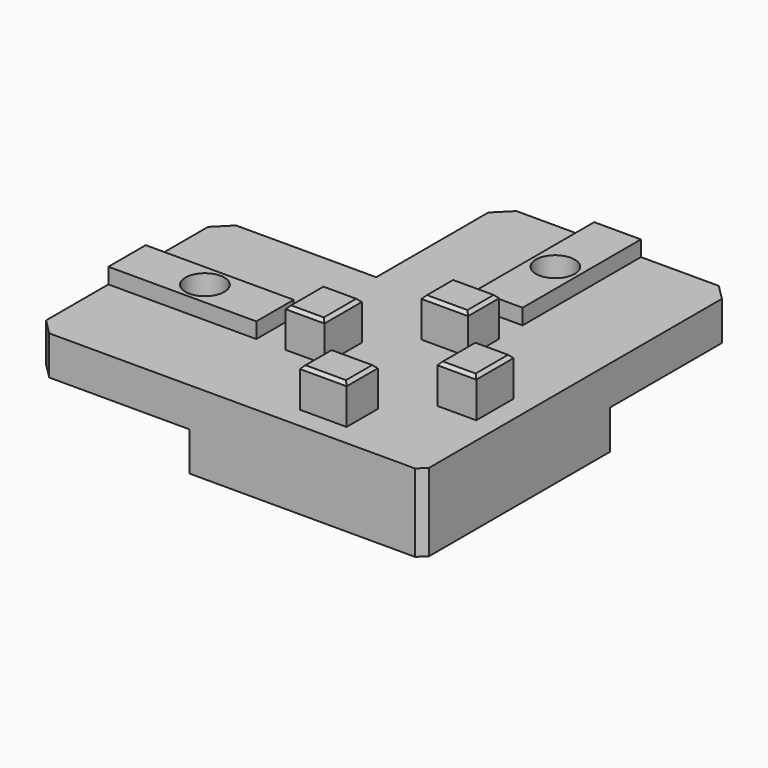
from build123d import *

# Parameters (mm, degrees)
BOX009_W          = 25
BOX009_H          = 25
BOX009_DEPTH      = 3
CYLINDER002_R     = 5
CYLINDER002_DEPTH = 2
CYLINDER003_R     = 5
CYLINDER003_DEPTH = 2
BOX004_W          = 5
BOX004_H          = 6
BOX004_DEPTH      = 5
CHAMFER004_SIZE   = 0.4
BOX003_W          = 5
BOX003_H          = 6
BOX003_DEPTH      = 5
CHAMFER003_SIZE   = 0.4
BOX002_W          = 6
BOX002_H          = 5
BOX002_DEPTH      = 5
CHAMFER002_SIZE   = 0.4
CYLINDER001_R     = 2.5
CYLINDER001_DEPTH = 10
BOX005_W          = 30
BOX005_H          = 20
BOX005_DEPTH      = 5
BOX007_W          = 6
BOX007_H          = 19
BOX007_DEPTH      = 2
CHAMFER001_SIZE   = 2
CYLINDER_R        = 2.5
CYLINDER_DEPTH    = 10
BOX006_W          = 20
BOX006_H          = 30
BOX006_DEPTH      = 5
BOX008_W          = 19
BOX008_H          = 6
BOX008_DEPTH      = 2
CHAMFER_SIZE      = 2
BOX_W             = 30
BOX_H             = 30
BOX_DEPTH         = 10
BOX001_W          = 6
BOX001_H          = 5
BOX001_DEPTH      = 5
CHAMFER005_SIZE   = 0.4
CHAMFER006_SIZE   = 1


with BuildPart() as cube009:
    # Box009 → Box009 (new body)
    with BuildSketch(Plane(origin=(-12.5, -12.5, -10), x_dir=(1, 0, 0), z_dir=(0, 0, 1))):
        with Locations((12.5, 12.5)):
            Rectangle(BOX009_W, BOX009_H)
    extrude(amount=BOX009_DEPTH)


with BuildPart() as cylinder002:
    # Cylinder002 → Cylinder002 (new body)
    with BuildSketch(Plane(origin=(0, 25, -5), x_dir=(1, 0, 0), z_dir=(0, 0, 1))):
        Circle(CYLINDER002_R)
    extrude(amount=CYLINDER002_DEPTH)


with BuildPart() as cylinder003:
    # Cylinder003 → Cylinder003 (new body)
    with BuildSketch(Plane(origin=(-25, 0, -5), x_dir=(1, 0, 0), z_dir=(0, 0, 1))):
        Circle(CYLINDER003_R)
    extrude(amount=CYLINDER003_DEPTH)


with BuildPart() as chamfer004:
    # Box004 → Box004 (new body)
    with BuildSketch(Plane(origin=(-12.25, -3, 0), x_dir=(1, 0, 0), z_dir=(0, 0, 1))):
        with Locations((2.5, 3)):
            Rectangle(BOX004_W, BOX004_H)
    extrude(amount=BOX004_DEPTH)

    # Chamfer004
    chamfer004_edges = [chamfer004.edges().sort_by_distance(p)[0] for p in [
        (-12.25, 0, 5),
        (-7.25, 0, 5),
        (-9.75, -3, 5),
        (-9.75, 3, 5),
    ]]
    chamfer(chamfer004_edges, length=CHAMFER004_SIZE)


with BuildPart() as chamfer003:
    # Box003 → Box003 (new body)
    with BuildSketch(Plane(origin=(7.25, -3, 0), x_dir=(1, 0, 0), z_dir=(0, 0, 1))):
        with Locations((2.5, 3)):
            Rectangle(BOX003_W, BOX003_H)
    extrude(amount=BOX003_DEPTH)

    # Chamfer003
    chamfer003_edges = [chamfer003.edges().sort_by_distance(p)[0] for p in [
        (7.25, 0, 5),
        (12.25, 0, 5),
        (9.75, -3, 5),
        (9.75, 3, 5),
    ]]
    chamfer(chamfer003_edges, length=CHAMFER003_SIZE)


with BuildPart() as chamfer002:
    # Box002 → Box002 (new body)
    with BuildSketch(Plane(origin=(-3, -12.25, 0), x_dir=(1, 0, 0), z_dir=(0, 0, 1))):
        with Locations((3, 2.5)):
            Rectangle(BOX002_W, BOX002_H)
    extrude(amount=BOX002_DEPTH)

    # Chamfer002
    chamfer002_edges = [chamfer002.edges().sort_by_distance(p)[0] for p in [
        (-3, -9.75, 5),
        (3, -9.75, 5),
        (0, -12.25, 5),
        (0, -7.25, 5),
    ]]
    chamfer(chamfer002_edges, length=CHAMFER002_SIZE)


with BuildPart() as cylinder001:
    # Cylinder001 → Cylinder001 (new body)
    with BuildSketch(Plane(origin=(0, 25, -5), x_dir=(1, 0, 0), z_dir=(0, 0, 1))):
        Circle(CYLINDER001_R)
    extrude(amount=CYLINDER001_DEPTH)


with BuildPart() as cube005:
    # Box005 → Box005 (new body)
    with BuildSketch(Plane(origin=(-15, 15, -5), x_dir=(1, 0, 0), z_dir=(0, 0, 1))):
        with Locations((15, 10)):
            Rectangle(BOX005_W, BOX005_H)
    extrude(amount=BOX005_DEPTH)


with BuildPart() as chamfer001:
    # Box007 → Box007 (new body)
    with BuildSketch(Plane(origin=(-3, 16, 0), x_dir=(1, 0, 0), z_dir=(0, 0, 1))):
        with Locations((3, 9.5)):
            Rectangle(BOX007_W, BOX007_H)
    extrude(amount=BOX007_DEPTH)

    # Fusion001: union Cube005
    add(cube005.part)

    # Cut001: cut Cylinder001
    add(cylinder001.part, mode=Mode.SUBTRACT)

    # Chamfer001
    chamfer001_edges = [chamfer001.edges().sort_by_distance(p)[0] for p in [
        (-15, 35, -2.5),
        (15, 35, -2.5),
    ]]
    chamfer(chamfer001_edges, length=CHAMFER001_SIZE)


with BuildPart() as cylinder:
    # Cylinder → Cylinder (new body)
    with BuildSketch(Plane(origin=(-25, 0, -5), x_dir=(1, 0, 0), z_dir=(0, 0, 1))):
        Circle(CYLINDER_R)
    extrude(amount=CYLINDER_DEPTH)


with BuildPart() as cube006:
    # Box006 → Box006 (new body)
    with BuildSketch(Plane(origin=(-35, -15, -5), x_dir=(1, 0, 0), z_dir=(0, 0, 1))):
        with Locations((10, 15)):
            Rectangle(BOX006_W, BOX006_H)
    extrude(amount=BOX006_DEPTH)


with BuildPart() as chamfer_body:
    # Box008 → Box008 (new body)
    with BuildSketch(Plane(origin=(-35, -3, 0), x_dir=(1, 0, 0), z_dir=(0, 0, 1))):
        with Locations((9.5, 3)):
            Rectangle(BOX008_W, BOX008_H)
    extrude(amount=BOX008_DEPTH)

    # Fusion: union Cube006
    add(cube006.part)

    # Cut: cut Cylinder
    add(cylinder.part, mode=Mode.SUBTRACT)

    # Chamfer
    chamfer_edges = [chamfer_body.edges().sort_by_distance(p)[0] for p in [
        (-35, -15, -2.5),
        (-35, 15, -2.5),
    ]]
    chamfer(chamfer_edges, length=CHAMFER_SIZE)


with BuildPart() as cube:
    # Box → Box (new body)
    with BuildSketch(Plane(origin=(-15, -15, -10), x_dir=(1, 0, 0), z_dir=(0, 0, 1))):
        with Locations((15, 15)):
            Rectangle(BOX_W, BOX_H)
    extrude(amount=BOX_DEPTH)


with BuildPart() as cut004:
    # Box001 → Box001 (new body)
    with BuildSketch(Plane(origin=(-3, 7.25, 0), x_dir=(1, 0, 0), z_dir=(0, 0, 1))):
        with Locations((3, 2.5)):
            Rectangle(BOX001_W, BOX001_H)
    extrude(amount=BOX001_DEPTH)

    # Chamfer005
    chamfer005_edges = [cut004.edges().sort_by_distance(p)[0] for p in [
        (-3, 9.75, 5),
        (3, 9.75, 5),
        (0, 7.25, 5),
        (0, 12.25, 5),
    ]]
    chamfer(chamfer005_edges, length=CHAMFER005_SIZE)

    # Fusion002: union Chamfer004, Chamfer003, Chamfer002, Chamfer001, Chamfer body, Cube
    add(chamfer004.part)
    add(chamfer003.part)
    add(chamfer002.part)
    add(chamfer001.part)
    add(chamfer_body.part)
    add(cube.part)

    # Cut002: cut Cylinder003
    add(cylinder003.part, mode=Mode.SUBTRACT)

    # Cut003: cut Cylinder002
    add(cylinder002.part, mode=Mode.SUBTRACT)

    # Chamfer006
    chamfer006_edges = [cut004.edges().sort_by_distance(p)[0] for p in [
        (15, -15, -5),
    ]]
    chamfer(chamfer006_edges, length=CHAMFER006_SIZE)

    # Cut004: cut Cube009
    add(cube009.part, mode=Mode.SUBTRACT)


solid = cut004.part
